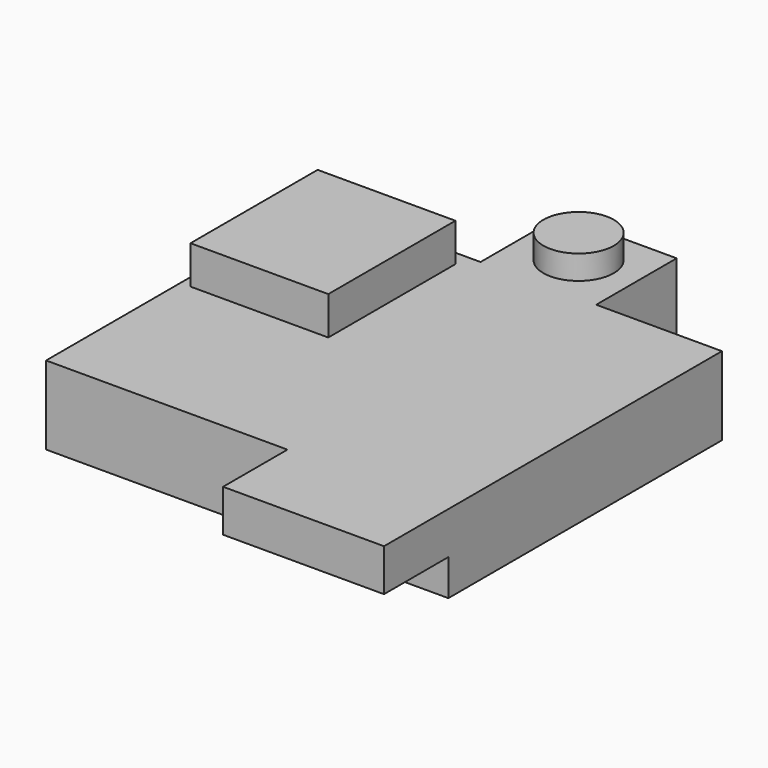
from build123d import *

# Parameters (mm, degrees)
F1_DEPTH      = 2.1
F1_DEPTH_BACK = 1.8
F2_R          = 1.75
F3_DEPTH      = 3.3
F4_W          = 6.85
F4_H          = 7.9
F5_DEPTH      = 4
F6_W          = 8
F6_H          = 2.1
F7_DEPTH      = 4


with BuildPart() as f1:
    # F0 (on Top) → F1 (new body, two sides)
    with BuildSketch(Plane.XY) as f1_sk:
        Polygon((10, -8.5), (10, 8.5), (3.75, 8.5), (3.75, 13.5), (-2, 13.5), (-2, 8.5), (-10, 8.5), (-10, -8.5), align=None)
    extrude(amount=F1_DEPTH)
    extrude(f1_sk.sketch, amount=-F1_DEPTH_BACK)

    # F2 (on Top) → F3 (join)
    with BuildSketch(Plane.XY):
        with Locations((0.875, 11)):
            Circle(F2_R)
    extrude(amount=F3_DEPTH)

    # F4 (on Top) → F5 (join)
    with BuildSketch(Plane.XY):
        with Locations((-6.075, 3.8)):
            Rectangle(F4_W, F4_H)
    extrude(amount=F5_DEPTH)

    # F6 (on face) → F7 (join)
    with BuildSketch(Plane.XZ.offset(8.5)):
        with Locations((6, 1.05)):
            Rectangle(F6_W, F6_H)
    extrude(amount=F7_DEPTH)


solid = f1.part
